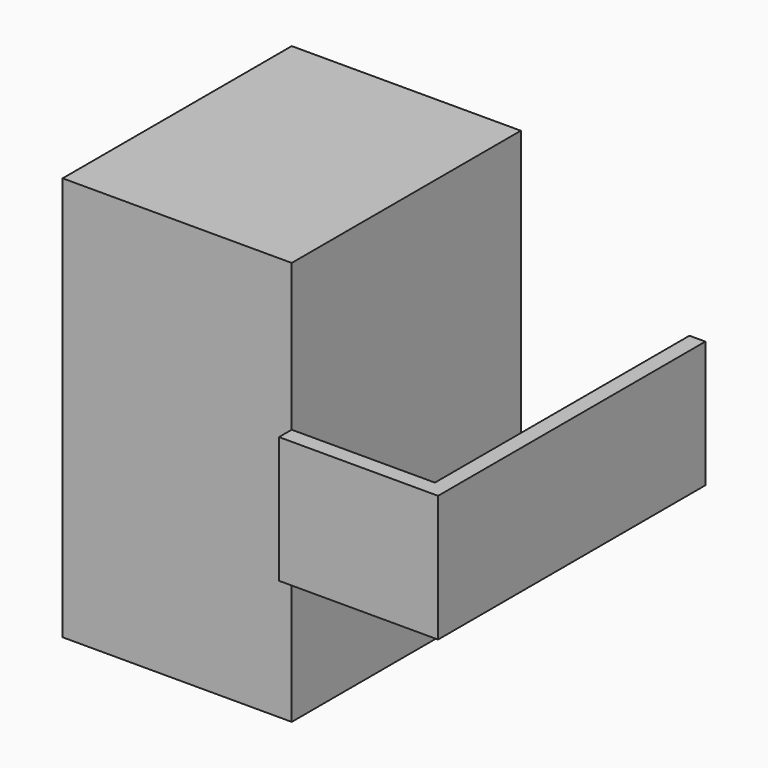
from build123d import *

# Parameters (mm, degrees)
F0_W     = 18.288
F0_H     = 32.258
F1_DEPTH = 22.86
F2_W     = 12.7
F2_H     = 10.102273
F3_DEPTH = 1.27
F4_W     = 1.27
F4_H     = 10.102273
F5_DEPTH = 25.4


with BuildPart() as f1:
    # F0 (on Front) → F1 (new body)
    with BuildSketch(Plane.XZ):
        with Locations((9.144, -8.924786)):
            Rectangle(F0_W, F0_H)
    extrude(amount=F1_DEPTH)


with BuildPart() as f3:
    # F2 (on face) → F3 (new body)
    with BuildSketch(Plane.XZ.offset(22.86)):
        with Locations((24.638, -9.569005)):
            Rectangle(F2_W, F2_H)
    extrude(amount=F3_DEPTH)

    # F4 (on face) → F5 (join)
    with BuildSketch(Plane(origin=(0, -22.86, 0), x_dir=(-1, 0, 0), z_dir=(0, 1, 0))):
        with Locations((-30.353, -9.569005)):
            Rectangle(F4_W, F4_H)
    extrude(amount=F5_DEPTH)


solid = Compound([f1.part, f3.part])
